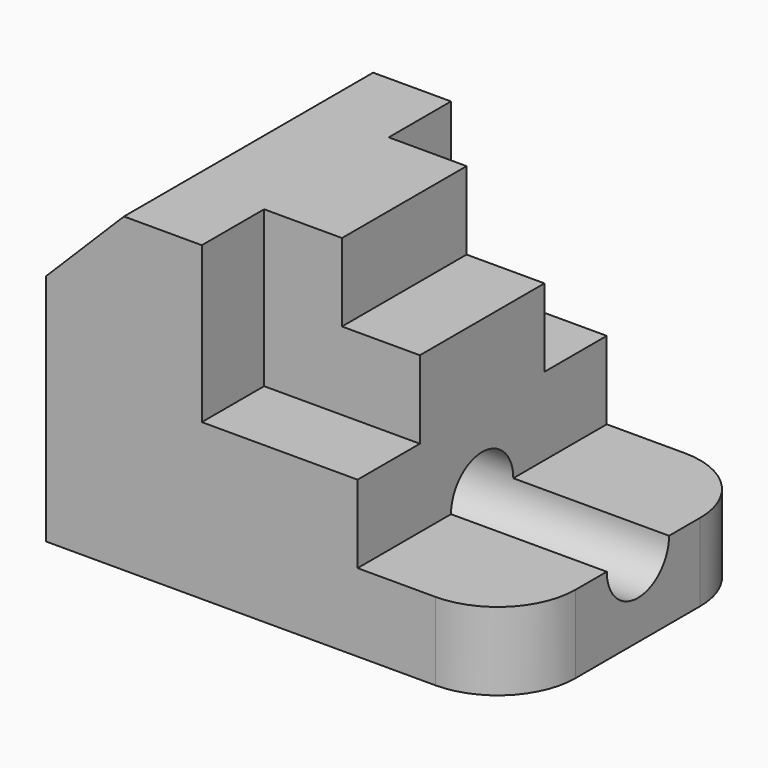
from build123d import *

# Parameters (mm, degrees)
F1_DEPTH = 50.8
F2_W     = 25.4
F2_H     = 12.7
F3_DEPTH = 25.4
F5_DEPTH = 12.701
F6_R     = 6.35
F7_DEPTH = 76.201


with BuildPart() as f1:
    # F0 (on Front) → F1 (new body)
    with BuildSketch(Plane.XZ):
        Polygon((0, 38.1), (0, 0), (76.2, 0), (76.2, 12.7), (50.8, 12.7), (50.8, 38.1), (38.1, 38.1), (38.1, 50.8), (12.7, 50.8), align=None)
    extrude(amount=F1_DEPTH)

    # F2 (on face) → F3 (cut)
    with BuildSketch(Plane.XY.offset(50.8)):
        with Locations((38.1, -44.45)):
            Rectangle(F2_W, F2_H)
        with Locations((38.1, -6.35)):
            Rectangle(F2_W, F2_H)
    extrude(amount=-F3_DEPTH, mode=Mode.SUBTRACT)

    # F4 (on face) → F5 (cut, through all)
    with BuildSketch(Plane.XY.offset(12.7)):
        with BuildLine():
            ThreePointArc((63.5, 0), (72.480256, -3.719744), (76.2, -12.7))
            Line((76.2, -12.7), (76.2, 0))
            Line((76.2, 0), (63.5, 0))
        make_face()
        with BuildLine():
            ThreePointArc((76.2, -38.1), (72.480256, -47.080256), (63.5, -50.8))
            Line((63.5, -50.8), (76.2, -50.8))
            Line((76.2, -50.8), (76.2, -38.1))
        make_face()
    extrude(amount=-F5_DEPTH, mode=Mode.SUBTRACT)

    # F6 (on face) → F7 (cut, through all)
    with BuildSketch(Plane.YZ.offset(76.2)):
        with Locations((-25.4, 12.7)):
            Circle(F6_R)
    extrude(amount=-F7_DEPTH, mode=Mode.SUBTRACT)


solid = f1.part
